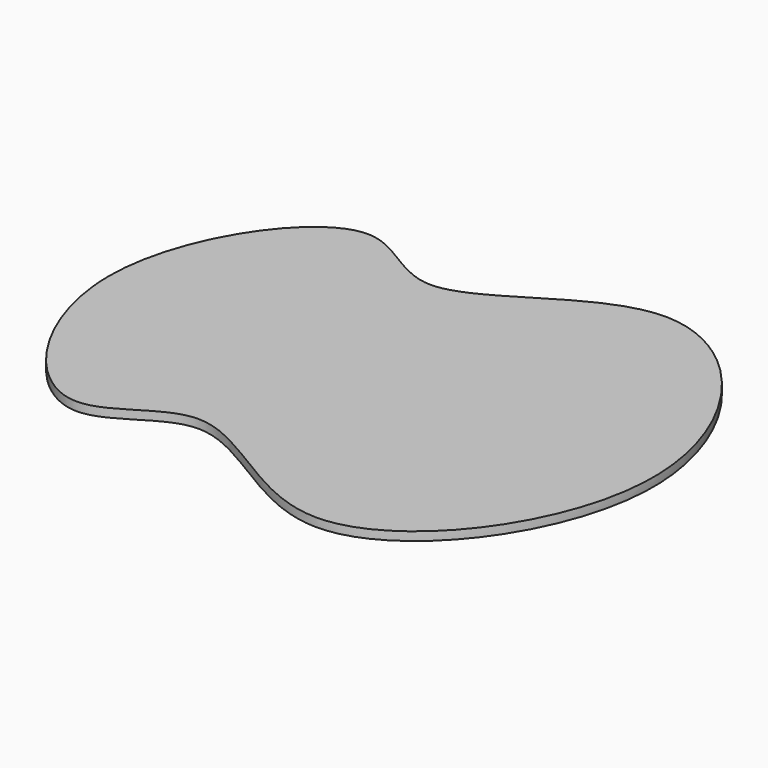
from build123d import *

# Parameters (mm, degrees)
F1_DEPTH = 3


with BuildPart() as f1:
    # F0 (on Top) → F1 (new body)
    with BuildSketch(Plane.XY):
        with BuildLine():
            add(Edge.make_bspline(
                [(-85.1829141453, 1.52171e-05), (-85.1829141453, 31.1441001283), (-48.6034145999, 83.9426866449), (-12.5096529249, 32.0489118969), (52.488891781, 107.39571158), (133.972781765, 1.52171e-05), (52.488891781, -107.3956811457), (-12.5096529249, -32.0488814627), (-48.6034145999, -83.9426562107), (-85.1829141453, -31.1440696941), (-85.1829141453, 1.52171e-05)],
                knots=[0, 0, 0, 0, 0.1323947401, 0.2244488852, 0.3505322945, 0.5, 0.6494677055, 0.7755511148, 0.8676052599, 1, 1, 1, 1], degree=3))
        make_face()
    extrude(amount=F1_DEPTH)


solid = f1.part
